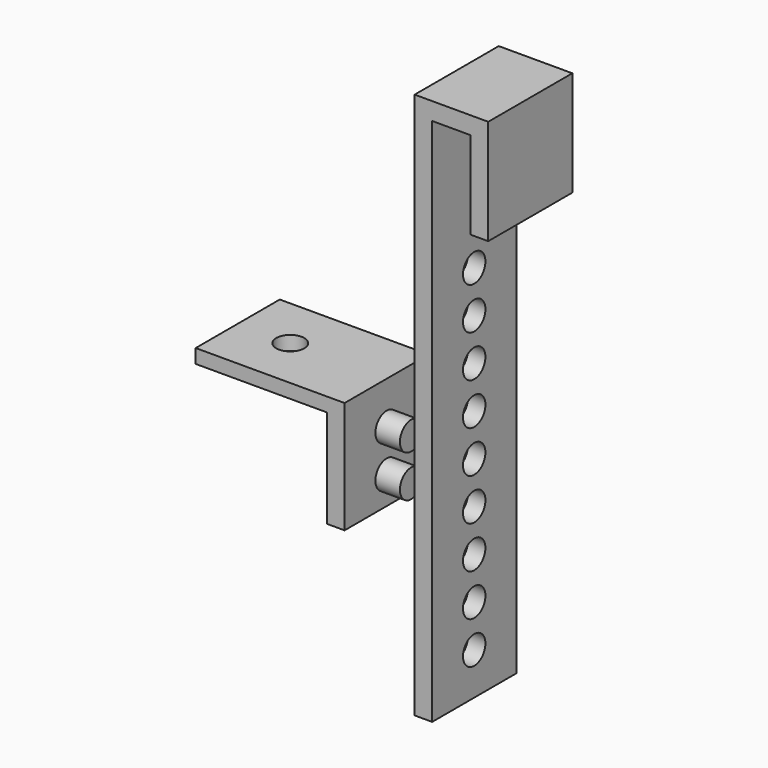
from build123d import *

# Parameters (mm, degrees)
F1_W           = 30
F1_H           = 156
F1_R           = 4
F2_DEPTH       = 2.5
F2_DEPTH_BACK  = 2.5
F4_DEPTH       = 15
F4_DEPTH_BACK  = 15
F6_W           = 30
F6_H           = 28
F6_R           = 4
F6_H_2         = 4
F7_DEPTH       = 2.5
F7_DEPTH_BACK  = 2.5
F8_DEPTH       = 40
F9_R           = 4
F10_DEPTH      = 5
F10_DEPTH_BACK = 5
F11_W          = 12
F11_H          = 24
F12_DEPTH      = 3
F11_R          = 4
F13_DEPTH      = 12
F13_DEPTH_BACK = 3


with BuildPart() as f2:
    # F1 (on Right) → F2 (new body, two sides)
    with BuildSketch(Plane.YZ) as f2_sk:
        with Locations((0, -11.1328125)):
            Rectangle(F1_W, F1_H)
        with Locations((0, -77.1328125)):
            Circle(F1_R, mode=Mode.SUBTRACT)
        with Locations((0, -65.1328125)):
            Circle(F1_R, mode=Mode.SUBTRACT)
        with Locations((0, -53.1328125)):
            Circle(F1_R, mode=Mode.SUBTRACT)
        with Locations((0, -41.1328125)):
            Circle(F1_R, mode=Mode.SUBTRACT)
        with Locations((0, -29.1328125)):
            Circle(F1_R, mode=Mode.SUBTRACT)
        with Locations((0, -17.1328125)):
            Circle(F1_R, mode=Mode.SUBTRACT)
        with Locations((0, -5.1328125)):
            Circle(F1_R, mode=Mode.SUBTRACT)
        with Locations((0, 6.8671875)):
            Circle(F1_R, mode=Mode.SUBTRACT)
        with Locations((0, 18.8671875)):
            Circle(F1_R, mode=Mode.SUBTRACT)
    extrude(amount=F2_DEPTH)
    extrude(f2_sk.sketch, amount=-F2_DEPTH_BACK)

    # F3 (on Front) → F4 (join, two sides)
    with BuildSketch(Plane.XZ) as f4_sk:
        Polygon((2.5, 66.8671875), (-2.5, 66.8671875), (-2.5, 61.8671875), (13.5, 61.8671875), (13.5, 36.8671875), (18.5, 36.8671875), (18.5, 61.8671875), (18.5, 66.8671875), (13.5, 66.8671875), align=None)
    extrude(amount=F4_DEPTH)
    extrude(f4_sk.sketch, amount=-F4_DEPTH_BACK)


with BuildPart() as f7:
    # F6 (on offset) → F7 (new body, two sides)
    with BuildSketch(Plane.YZ.offset(-25)) as f7_sk:
        with Locations((0, -35.1328125)):
            Rectangle(F6_W, F6_H)
        with Locations((0, -41.1328125)):
            Circle(F6_R, mode=Mode.SUBTRACT)
        with Locations((0, -29.1328125)):
            Circle(F6_R, mode=Mode.SUBTRACT)
        with Locations((0, -19.1328125)):
            Rectangle(F6_W, F6_H_2)
    extrude(amount=F7_DEPTH)
    extrude(f7_sk.sketch, amount=-F7_DEPTH_BACK)

    # F6 (on offset) → F8 (join)
    with BuildSketch(Plane.YZ.offset(-25)):
        with Locations((0, -19.1328125)):
            Rectangle(F6_W, F6_H_2)
    extrude(amount=-F8_DEPTH)

    # F9 (on face) → F10 (cut, two sides)
    with BuildSketch(Plane.XY.offset(-17.1328125)) as f10_sk:
        with Locations((-50, 0)):
            Circle(F9_R)
    extrude(amount=F10_DEPTH, mode=Mode.SUBTRACT)
    extrude(f10_sk.sketch, amount=-F10_DEPTH_BACK, mode=Mode.SUBTRACT)


with BuildPart() as f12:
    # F11 (on face) → F12 (new body)
    with BuildSketch(Plane(origin=(-27.5, 0, 0), x_dir=(0, -1, 0), z_dir=(-1, 0, 0))):
        with Locations((0, -35.1328125)):
            Rectangle(F11_W, F11_H)
    extrude(amount=F12_DEPTH)

    # F11 (on face) → F13 (join, two sides)
    with BuildSketch(Plane(origin=(-27.5, 0, 0), x_dir=(0, -1, 0), z_dir=(-1, 0, 0))) as f13_sk:
        with Locations((0, -29.1328125)):
            Circle(F11_R)
        with Locations((0, -41.1328125)):
            Circle(F11_R)
    extrude(amount=-F13_DEPTH)
    extrude(f13_sk.sketch, amount=F13_DEPTH_BACK)


solid = Compound([f2.part, f7.part, f12.part])
